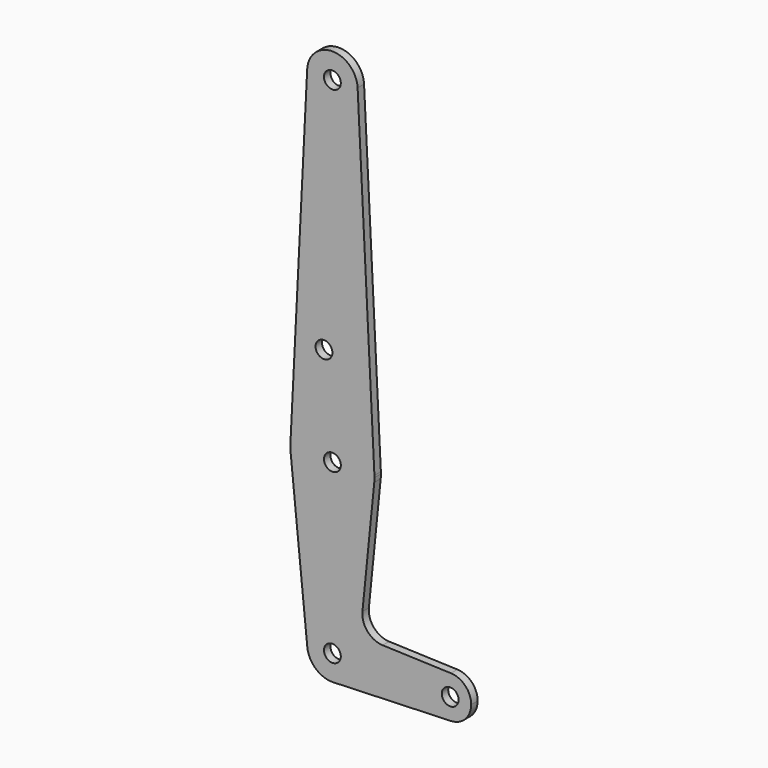
from build123d import *

# Parameters (mm, degrees)
F0_R     = 3.175
F1_DEPTH = 3.048


with BuildPart() as f1:
    # F0 (on Front) → F1 (new body)
    with BuildSketch(Plane.XZ):
        with BuildLine():
            ThreePointArc((15.795426, -1.5875), (15.855094, -0.794747), (15.875, 0))
            ThreePointArc((15.875, 0), (15.870035, 0.396999), (15.855144, 0.79375))
            ThreePointArc((15.855144, 0.79375), (0, 15.875), (-15.855144, 0.79375))
            ThreePointArc((-15.855144, 0.79375), (-15.87001, -0.397997), (-15.795426, -1.5875))
            ThreePointArc((-15.795426, -1.5875), (0, -15.875), (15.795426, -1.5875))
        make_face()
        Circle(F0_R, mode=Mode.SUBTRACT)
        with BuildLine():
            ThreePointArc((-15.855144, 0.79375), (0, 15.875), (15.855144, 0.79375))
            Line((15.855144, 0.79375), (9.513086, 127.47625))
            ThreePointArc((9.513086, 127.47625), (9.522021, 127.238199), (9.525, 127))
            ThreePointArc((9.525, 127), (-0.238199, 117.477979), (-9.513086, 127.47625))
            Line((-9.513086, 127.47625), (-15.855144, 0.79375))
        make_face()
        with Locations((-3.175, 36.386943)):
            Circle(F0_R, mode=Mode.SUBTRACT)
        with BuildLine():
            Line((11.341187, -45.906618), (15.795426, -1.5875))
            ThreePointArc((15.795426, -1.5875), (0, -15.875), (-15.795426, -1.5875))
            Line((-15.795426, -1.5875), (-9.477255, -64.4525))
            ThreePointArc((-9.477255, -64.4525), (-0.476848, -53.986944), (9.525, -63.5))
            ThreePointArc((9.525, -63.5), (6.854408, -70.113827), (0.340179, -73.018923))
            Line((0.340179, -73.018923), (44.733482, -71.432436))
            ThreePointArc((44.733482, -71.432436), (36.5125, -63.5), (44.733482, -55.567564))
            Line((44.733482, -55.567564), (18.9676, -54.646766))
            ThreePointArc((18.9676, -54.646766), (13.2612, -51.928641), (11.341187, -45.906618))
        make_face()
        with BuildLine():
            ThreePointArc((9.525, 127), (9.522021, 127.238199), (9.513086, 127.47625))
            ThreePointArc((9.513086, 127.47625), (0, 136.525), (-9.513086, 127.47625))
            ThreePointArc((-9.513086, 127.47625), (-0.238199, 117.477979), (9.525, 127))
        make_face()
        with Locations((0, 127)):
            Circle(F0_R, mode=Mode.SUBTRACT)
        with BuildLine():
            ThreePointArc((9.525, -63.5), (-0.476848, -53.986944), (-9.477255, -64.4525))
            ThreePointArc((-9.477255, -64.4525), (-6.262383, -70.67692), (0.340179, -73.018923))
            ThreePointArc((0.340179, -73.018923), (6.854408, -70.113827), (9.525, -63.5))
        make_face()
        with Locations((0, -63.5)):
            Circle(F0_R, mode=Mode.SUBTRACT)
        with BuildLine():
            ThreePointArc((52.3875, -63.5), (50.162007, -57.988477), (44.733482, -55.567564))
            ThreePointArc((44.733482, -55.567564), (36.5125, -63.5), (44.733482, -71.432436))
            ThreePointArc((44.733482, -71.432436), (50.162007, -69.011523), (52.3875, -63.5))
        make_face()
        with Locations((44.45, -63.5)):
            Circle(F0_R, mode=Mode.SUBTRACT)
    extrude(amount=F1_DEPTH)


solid = f1.part
